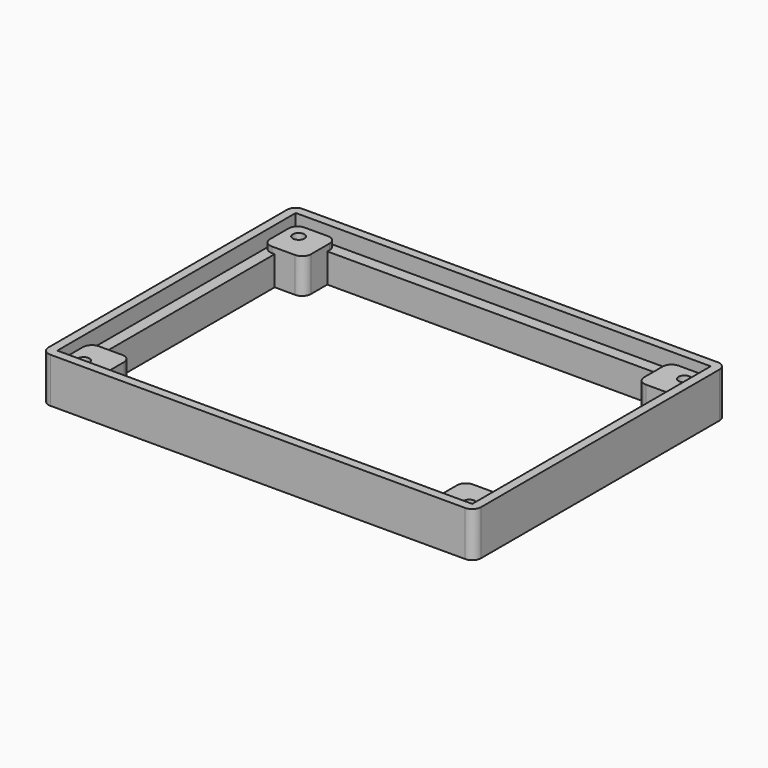
from build123d import *

# Parameters (mm, degrees)
CYLINDER002_R     = 1
CYLINDER002_DEPTH = 10
ARRAY005_X_COUNT  = 2
ARRAY005_X_PITCH  = 66
ARRAY005_Y_COUNT  = 2
ARRAY005_Y_PITCH  = 46
BOX005_W          = 71
BOX005_H          = 51
BOX005_DEPTH      = 10
BOX004_W          = 67
BOX004_H          = 47
BOX004_DEPTH      = 10
BOX007_W          = 74
BOX007_H          = 54
BOX007_DEPTH      = 7.7
FILLET003_R       = 1.5
BOX006_W          = 7
BOX006_H          = 7
BOX006_DEPTH      = 6
FILLET002_R       = 1.5
ARRAY007_X_COUNT  = 2
ARRAY007_X_PITCH  = 64
ARRAY007_Y_COUNT  = 2
ARRAY007_Y_PITCH  = 44


with BuildPart() as dd_hole_array:
    # Cylinder002 → Cylinder002 (new body)
    with BuildSketch(Plane(origin=(4, 4, 0), x_dir=(1, 0, 0), z_dir=(0, 0, 1))):
        Circle(CYLINDER002_R)
    extrude(amount=CYLINDER002_DEPTH)

    # Array005 X: dd hole array ×2


with BuildPart() as dd_hole_array_1:
    add(dd_hole_array.part)
    with Locations(*[(i * ARRAY005_X_PITCH, 0, 0) for i in range(1, ARRAY005_X_COUNT)]):
        add(dd_hole_array.part)

    # Array005 Y: dd hole array ×2


with BuildPart() as dd_hole_array_2:
    add(dd_hole_array_1.part)
    with Locations(*[(0, i * ARRAY005_Y_PITCH, 0) for i in range(1, ARRAY005_Y_COUNT)]):
        add(dd_hole_array_1.part)


with BuildPart() as pcb_extraction001:
    # Box005 → Box005 (new body)
    with BuildSketch(Plane(origin=(1.5, 1.5, 5), x_dir=(1, 0, 0), z_dir=(0, 0, 1))):
        with Locations((35.5, 25.5)):
            Rectangle(BOX005_W, BOX005_H)
    extrude(amount=BOX005_DEPTH)


with BuildPart() as bottom_extraction003:
    # Box004 → Box004 (new body)
    with BuildSketch(Plane(origin=(3.5, 3.5, 0), x_dir=(1, 0, 0), z_dir=(0, 0, 1))):
        with Locations((33.5, 23.5)):
            Rectangle(BOX004_W, BOX004_H)
    extrude(amount=BOX004_DEPTH)

    # Fusion005: union pcb extraction001
    add(pcb_extraction001.part)


with BuildPart() as pcb_box_cut001:
    # Box007 → Box007 (new body)
    with BuildSketch(Plane.XY):
        with Locations((37, 27)):
            Rectangle(BOX007_W, BOX007_H)
    extrude(amount=BOX007_DEPTH)

    # Fillet003
    fillet003_edges = [pcb_box_cut001.edges().sort_by_distance(p)[0] for p in [
        (0, 0, 3.85),
        (0, 54, 3.85),
        (74, 0, 3.85),
        (74, 54, 3.85),
    ]]
    fillet(fillet003_edges, radius=FILLET003_R)

    # Cut002004: cut bottom extraction003
    add(bottom_extraction003.part, mode=Mode.SUBTRACT)


with BuildPart() as dd_frame_fusion_with_holes_no_attachment:
    # Box006 → Box006 (new body)
    with BuildSketch(Plane(origin=(1.5, 1.5, 0), x_dir=(1, 0, 0), z_dir=(0, 0, 1))):
        with Locations((3.5, 3.5)):
            Rectangle(BOX006_W, BOX006_H)
    extrude(amount=BOX006_DEPTH)

    # Fillet002
    fillet002_edges = [dd_frame_fusion_with_holes_no_attachment.edges().sort_by_distance(p)[0] for p in [
        (1.5, 1.5, 3),
        (1.5, 8.5, 3),
        (8.5, 1.5, 3),
        (8.5, 8.5, 3),
    ]]
    fillet(fillet002_edges, radius=FILLET002_R)

    # Array007 X: dd frame fusion with holes no attachment ×2


with BuildPart() as dd_frame_fusion_with_holes_no_attachment_1:
    add(dd_frame_fusion_with_holes_no_attachment.part)
    with Locations(*[(i * ARRAY007_X_PITCH, 0, 0) for i in range(1, ARRAY007_X_COUNT)]):
        add(dd_frame_fusion_with_holes_no_attachment.part)

    # Array007 Y: dd frame fusion with holes no attachment ×2


with BuildPart() as dd_frame_fusion_with_holes_no_attachment_2:
    add(dd_frame_fusion_with_holes_no_attachment_1.part)
    with Locations(*[(0, i * ARRAY007_Y_PITCH, 0) for i in range(1, ARRAY007_Y_COUNT)]):
        add(dd_frame_fusion_with_holes_no_attachment_1.part)

    # Fusion003: union pcb box cut001
    add(pcb_box_cut001.part)

    # Cut002005: cut dd hole array
    add(dd_hole_array_2.part, mode=Mode.SUBTRACT)


solid = dd_frame_fusion_with_holes_no_attachment_2.part
